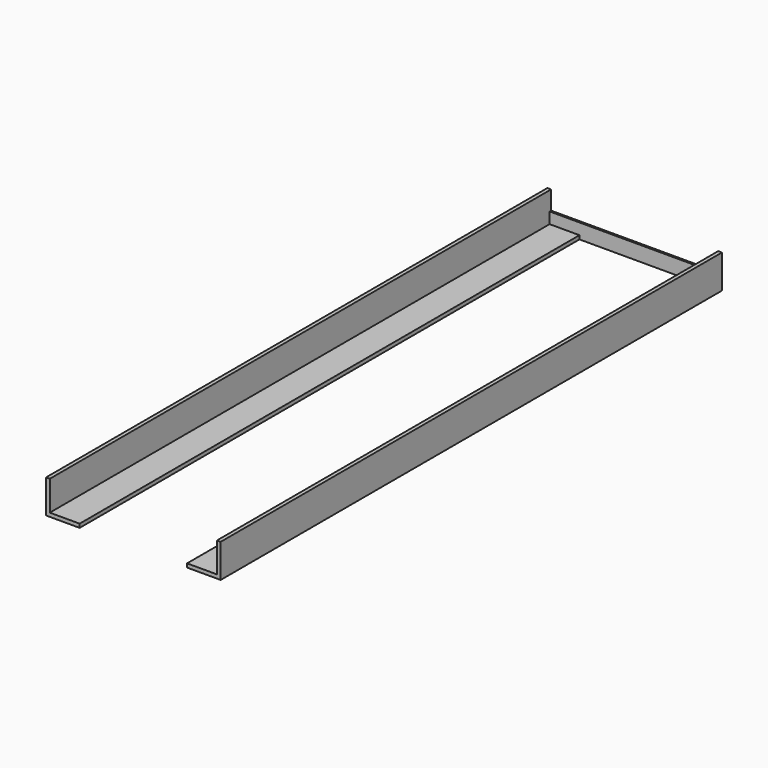
from build123d import *

# Parameters (mm, degrees)
F1_DEPTH = 533.4
F0_W     = 25.4
F0_H     = 9.525
F0_W_2   = 91.44
F0_H_2   = 3.175
F2_DEPTH = 1.5875


with BuildPart() as f1:
    # F0 (on Front) → F1 (new body)
    with BuildSketch(Plane.XZ):
        Polygon((0, 9.525), (0, 0), (-25.4, 0), (-25.4, -3.175), (3.175, -3.175), (3.175, 9.525), (3.175, 25.4), (0, 25.4), align=None)
        Polygon((-116.84, -3.175), (-116.84, 0), (-142.24, 0), (-142.24, 9.525), (-142.24, 25.4), (-145.415, 25.4), (-145.415, 9.525), (-145.415, -3.175), align=None)
        Polygon((-116.84, -3.175), (-116.84, 0), (-142.24, 0), (-142.24, 9.525), (-142.24, 25.4), (-145.415, 25.4), (-145.415, 9.525), (-145.415, -3.175), align=None)
    extrude(amount=F1_DEPTH)

    # F0 (on Front) → F2 (join)
    with BuildSketch(Plane.XZ):
        with Locations((-12.7, 4.7625)):
            Rectangle(F0_W, F0_H)
        with Locations((-129.54, 4.7625)):
            Rectangle(F0_W, F0_H)
        with Locations((-71.12, -1.5875)):
            Rectangle(F0_W_2, F0_H_2)
        with Locations((-71.12, 4.7625)):
            Rectangle(F0_W_2, F0_H)
    extrude(amount=F2_DEPTH)


solid = f1.part
